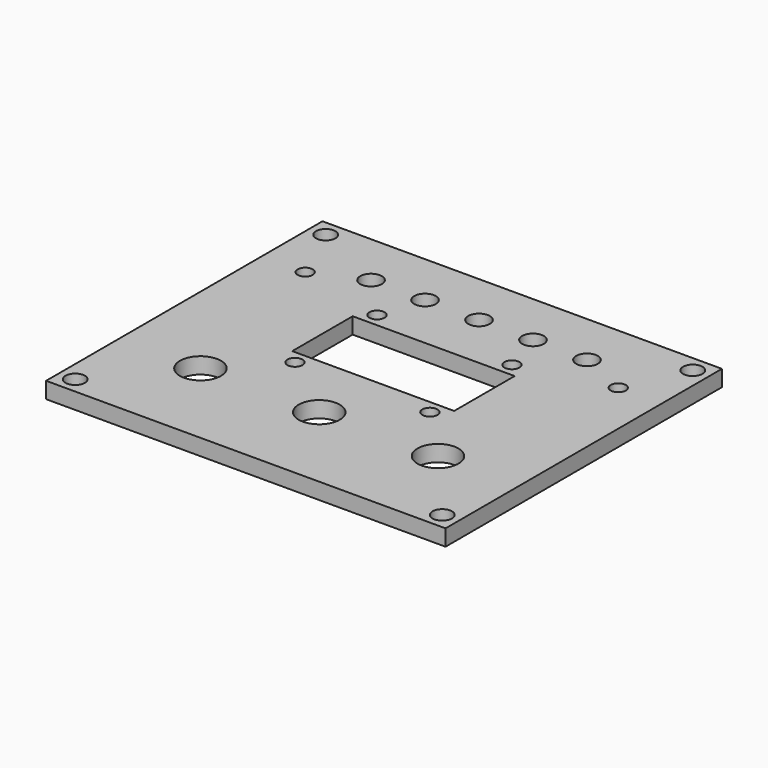
from build123d import *

# Parameters (mm, degrees)
CYLINDER_R              = 3.8
CYLINDER_DEPTH          = 50
CYLINDER001_R           = 10
CYLINDER001_DEPTH       = 15
BOX001_W                = 12
BOX001_H                = 12
BOX001_DEPTH            = 10
BODY003_PLACEMENT_ANGLE = 180
CYLINDER012_R           = 2
CYLINDER012_DEPTH       = 20
ARRAY008_X_COUNT        = 5
ARRAY008_X_PITCH        = 10
CYLINDER013_R           = 1.4
CYLINDER013_DEPTH       = 20
ARRAY009_X_COUNT        = 2
ARRAY009_X_PITCH        = 58
ARRAY010_X_COUNT        = 2
ARRAY010_X_PITCH        = 25
ARRAY010_Y_COUNT        = 2
ARRAY010_Y_PITCH        = 19
BOX011_W                = 30
BOX011_H                = 14
BOX011_DEPTH            = 20
CYLINDER011_R           = 1.8
CYLINDER011_DEPTH       = 20
ARRAY007_X_COUNT        = 2
ARRAY007_X_PITCH        = 68
ARRAY007_Y_COUNT        = 2
ARRAY007_Y_PITCH        = 58
BOX009_W                = 74
BOX009_H                = 64
BOX009_DEPTH            = 3


with BuildPart() as encoder_hole:
    # Cylinder → Cylinder (new body)
    with BuildSketch(Plane.XY):
        Circle(CYLINDER_R)
    extrude(amount=CYLINDER_DEPTH)


with BuildPart() as encoder_cap:
    # Cylinder001 → Cylinder001 (new body)
    with BuildSketch(Plane.XY.offset(35)):
        Circle(CYLINDER001_R)
    extrude(amount=CYLINDER001_DEPTH)


with BuildPart() as encoder_fusion:
    # Box001 → Box001 (new body)
    with BuildSketch(Plane(origin=(-6, -6, 0), x_dir=(1, 0, 0), z_dir=(0, 0, 1))):
        with Locations((6, 6)):
            Rectangle(BOX001_W, BOX001_H)
    extrude(amount=BOX001_DEPTH)

    # Fusion: union encoder hole, encoder cap
    add(encoder_hole.part)
    add(encoder_cap.part)


with BuildPart() as encoder_fusion_1:
    # Fusion placement: moved
    add(encoder_fusion.part.moved(Location((0, 0, -20))))


with BuildPart() as encoder_clone001:
    # Body001 base: copy of encoder fusion
    add(encoder_fusion_1.part)


with BuildPart() as encoder_clone001_1:
    # Clone001 placement: moved
    add(encoder_clone001.part.moved(Location((0, 0, 20))))


with BuildPart() as encoder_clone001_2:
    # Body001 placement: moved
    add(encoder_clone001_1.part.moved(Location((22, 0, -20))))


with BuildPart() as encoder_compound_clone001:
    # Body base: copy of encoder fusion
    add(encoder_fusion_1.part)


with BuildPart() as encoder_compound_clone001_1:
    # Clone placement: moved
    add(encoder_compound_clone001.part.moved(Location((0, 0, 20))))


with BuildPart() as encoder_compound_clone001_2:
    # Body placement: moved
    add(encoder_compound_clone001_1.part.moved(Location((44, 0, -20))))

    # Compound: union encoder clone001, encoder fusion
    add(encoder_clone001_2.part)
    add(encoder_fusion_1.part)


with BuildPart() as encoder_compound_clone001_3:
    # Body003 placement: moved
    add(encoder_compound_clone001_2.part.moved(Location((59, 17, -2))).rotate(Axis((59, 17, -2), (0, 1, 0)), BODY003_PLACEMENT_ANGLE))


with BuildPart() as button_hole_array:
    # Cylinder012 → Cylinder012 (new body)
    with BuildSketch(Plane.XY):
        Circle(CYLINDER012_R)
    extrude(amount=CYLINDER012_DEPTH)

    # Array008 X: button hole array ×5


with BuildPart() as button_hole_array_1:
    add(button_hole_array.part)
    with Locations(*[(i * ARRAY008_X_PITCH, 0, 0) for i in range(1, ARRAY008_X_COUNT)]):
        add(button_hole_array.part)


with BuildPart() as button_hole_array_2:
    # Array008 placement: moved
    add(button_hole_array_1.part.moved(Location((17, 54, -9))))


with BuildPart() as m2_5_bolt_hole:
    # Cylinder013 → Cylinder013 (new body)
    with BuildSketch(Plane.XY):
        Circle(CYLINDER013_R)
    extrude(amount=CYLINDER013_DEPTH)


with BuildPart() as m2_5_bolt_hole_array:
    # Array009 base: copy of m2.5 bolt hole
    add(m2_5_bolt_hole.part)

    # Array009 X: m2.5 bolt hole array ×2


with BuildPart() as m2_5_bolt_hole_array_1:
    add(m2_5_bolt_hole_array.part)
    with Locations(*[(i * ARRAY009_X_PITCH, 0, 0) for i in range(1, ARRAY009_X_COUNT)]):
        add(m2_5_bolt_hole_array.part)


with BuildPart() as m2_5_bolt_hole_array_2:
    # Array009 placement: moved
    add(m2_5_bolt_hole_array_1.part.moved(Location((8, 50, -8))))


with BuildPart() as m2_5_bolt_hole_array001:
    # Body004 base: copy of m2.5 bolt hole
    add(m2_5_bolt_hole.part)

    # Array010 X: m2.5 bolt hole array001 ×2


with BuildPart() as m2_5_bolt_hole_array001_1:
    add(m2_5_bolt_hole_array001.part)
    with Locations(*[(i * ARRAY010_X_PITCH, 0, 0) for i in range(1, ARRAY010_X_COUNT)]):
        add(m2_5_bolt_hole_array001.part)

    # Array010 Y: m2.5 bolt hole array001 ×2


with BuildPart() as m2_5_bolt_hole_array001_2:
    add(m2_5_bolt_hole_array001_1.part)
    with Locations(*[(0, i * ARRAY010_Y_PITCH, 0) for i in range(1, ARRAY010_Y_COUNT)]):
        add(m2_5_bolt_hole_array001_1.part)


with BuildPart() as tft_hole_fusion:
    # Box011 → Box011 (new body)
    with BuildSketch(Plane(origin=(-2.5, 2.5, 0), x_dir=(1, 0, 0), z_dir=(0, 0, 1))):
        with Locations((15, 7)):
            Rectangle(BOX011_W, BOX011_H)
    extrude(amount=BOX011_DEPTH)

    # Fusion006: union m2.5 bolt hole array001
    add(m2_5_bolt_hole_array001_2.part)


with BuildPart() as tft_hole_fusion_1:
    # Fusion006 placement: moved
    add(tft_hole_fusion.part.moved(Location((24.5, 27, -5))))


with BuildPart() as bottom_plate_hole_fusion001:
    # Cylinder011 → Cylinder011 (new body)
    with BuildSketch(Plane(origin=(3, 3, 0), x_dir=(1, 0, 0), z_dir=(0, 0, 1))):
        Circle(CYLINDER011_R)
    extrude(amount=CYLINDER011_DEPTH)

    # Array007 X: bottom plate hole fusion001 ×2


with BuildPart() as bottom_plate_hole_fusion001_1:
    add(bottom_plate_hole_fusion001.part)
    with Locations(*[(i * ARRAY007_X_PITCH, 0, 0) for i in range(1, ARRAY007_X_COUNT)]):
        add(bottom_plate_hole_fusion001.part)

    # Array007 Y: bottom plate hole fusion001 ×2


with BuildPart() as bottom_plate_hole_fusion001_2:
    add(bottom_plate_hole_fusion001_1.part)
    with Locations(*[(0, i * ARRAY007_Y_PITCH, 0) for i in range(1, ARRAY007_Y_COUNT)]):
        add(bottom_plate_hole_fusion001_1.part)

    # Fusion005: union encoder compound clone001, button hole array, m2.5 bolt hole array, tft hole fusion
    add(encoder_compound_clone001_3.part)
    add(button_hole_array_2.part)
    add(m2_5_bolt_hole_array_2.part)
    add(tft_hole_fusion_1.part)


with BuildPart() as top_plate_cut:
    # Box009 → Box009 (new body)
    with BuildSketch(Plane.XY):
        with Locations((37, 32)):
            Rectangle(BOX009_W, BOX009_H)
    extrude(amount=BOX009_DEPTH)

    # Cut006: cut bottom plate hole fusion001
    add(bottom_plate_hole_fusion001_2.part, mode=Mode.SUBTRACT)


solid = top_plate_cut.part
